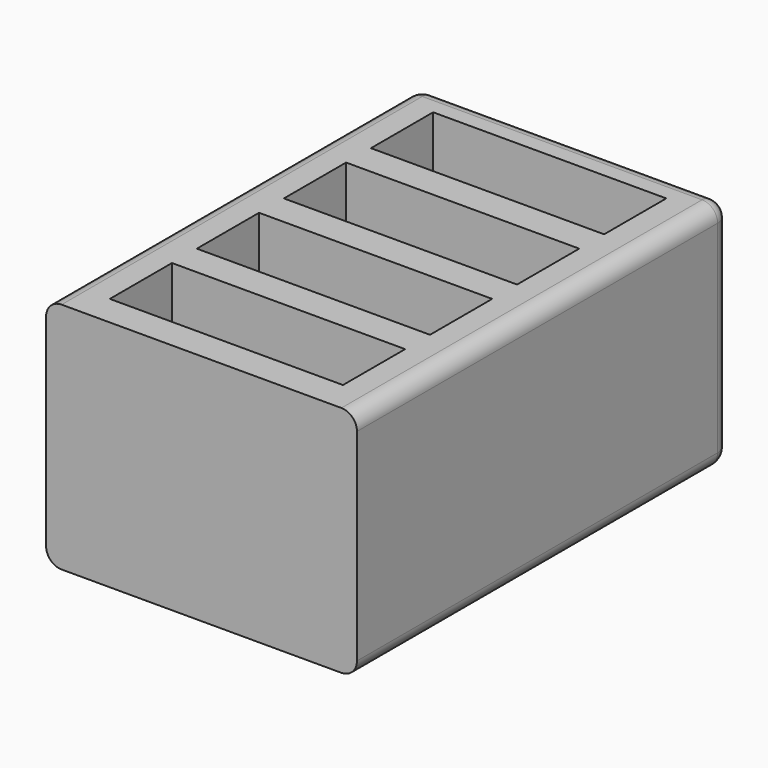
from build123d import *

# Parameters (mm, degrees)
F0_W     = 101.6
F0_H     = 152.4
F1_DEPTH = 76.2
F2_W     = 76.2
F2_H     = 25.4
F3_DEPTH = 50.8
F4_R     = 5.08


with BuildPart() as f1:
    # F0 (on Top) → F1 (new body)
    with BuildSketch(Plane.XY):
        Rectangle(F0_W, F0_H)
    extrude(amount=F1_DEPTH)

    # F2 (on face) → F3 (cut)
    with BuildSketch(Plane.XY.offset(76.2)):
        with Locations((0, 53.34)):
            Rectangle(F2_W, F2_H)
        with Locations((0, 17.78)):
            Rectangle(F2_W, F2_H)
        with Locations((0, -17.78)):
            Rectangle(F2_W, F2_H)
        with Locations((0, -53.34)):
            Rectangle(F2_W, F2_H)
    extrude(amount=-F3_DEPTH, mode=Mode.SUBTRACT)

    # F4
    f4_edges = [f1.edges().sort_by_distance(p)[0] for p in [
        (-50.8, 76.2, 38.1),
        (50.8, 76.2, 38.1),
        (50.8, 0, 76.2),
        (0, 76.2, 76.2),
        (0, 76.2, 0),
        (-50.8, 0, 0),
        (50.8, 0, 0),
        (-50.8, 0, 76.2),
    ]]
    fillet(f4_edges, radius=F4_R)


solid = f1.part
